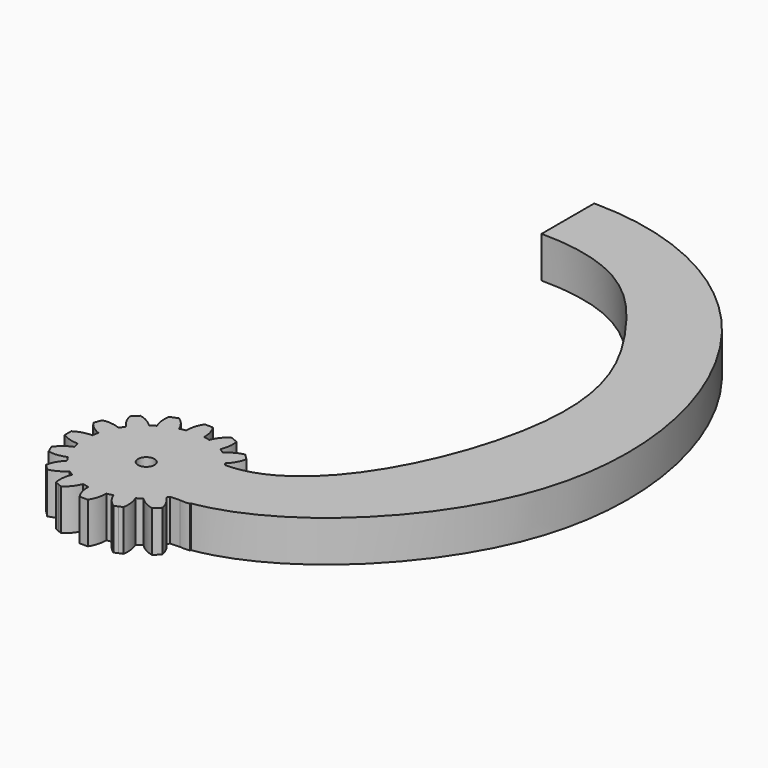
from build123d import *

# Parameters (mm, degrees)
F1_DEPTH = 5
F2_R     = 1
F3_DEPTH = 5.001
F5_DEPTH = 5


with BuildPart() as f1:
    # F0 (on Top) → F1 (new body)
    with BuildSketch(Plane.XY):
        with BuildLine():
            ThreePointArc((7.4206173165, -1.0883191822), (7.4801280027, -0.5456052265), (7.5, 0))
            ThreePointArc((7.5, 0), (7.4801280027, 0.5456052265), (7.4206173165, 1.0883191822))
            ThreePointArc((7.4206173165, 1.0883191822), (7.355889603, 1.4631774151), (7.2722381774, 1.8342714877))
            ThreePointArc((7.2722381774, 1.8342714877), (6.9290964938, 2.8701257427), (6.4392747372, 3.8452231222))
            ThreePointArc((6.4392747372, 3.8452231222), (6.2360220923, 4.1667767476), (6.0167266989, 4.4776109513))
            ThreePointArc((6.0167266989, 4.4776109513), (5.3033008589, 5.3033008589), (4.4776109513, 6.0167266989))
            ThreePointArc((4.4776109513, 6.0167266989), (4.1667767476, 6.2360220923), (3.8452231222, 6.4392747372))
            ThreePointArc((3.8452231222, 6.4392747372), (2.8701257427, 6.9290964938), (1.8342714877, 7.2722381774))
            ThreePointArc((1.8342714877, 7.2722381774), (1.4631774151, 7.355889603), (1.0883191822, 7.4206173165))
            ThreePointArc((1.0883191822, 7.4206173165), (0, 7.5), (-1.0883191822, 7.4206173165))
            ThreePointArc((-1.0883191822, 7.4206173165), (-1.4631774151, 7.355889603), (-1.8342714877, 7.2722381774))
            ThreePointArc((-1.8342714877, 7.2722381774), (-2.8701257427, 6.9290964938), (-3.8452231222, 6.4392747372))
            ThreePointArc((-3.8452231222, 6.4392747372), (-4.1667767476, 6.2360220923), (-4.4776109513, 6.0167266989))
            ThreePointArc((-4.4776109513, 6.0167266989), (-5.3033008589, 5.3033008589), (-6.0167266989, 4.4776109513))
            ThreePointArc((-6.0167266989, 4.4776109513), (-6.2360220923, 4.1667767476), (-6.4392747372, 3.8452231222))
            ThreePointArc((-6.4392747372, 3.8452231222), (-6.9290964938, 2.8701257427), (-7.2722381774, 1.8342714877))
            ThreePointArc((-7.2722381774, 1.8342714877), (-7.355889603, 1.4631774151), (-7.4206173165, 1.0883191822))
            ThreePointArc((-7.4206173165, 1.0883191822), (-7.5, 0), (-7.4206173165, -1.0883191822))
            ThreePointArc((-7.4206173165, -1.0883191822), (-7.355889603, -1.4631774151), (-7.2722381774, -1.8342714877))
            ThreePointArc((-7.2722381774, -1.8342714877), (-6.9290964938, -2.8701257427), (-6.4392747372, -3.8452231222))
            ThreePointArc((-6.4392747372, -3.8452231222), (-6.2360220923, -4.1667767476), (-6.0167266989, -4.4776109513))
            ThreePointArc((-6.0167266989, -4.4776109513), (-5.3033008589, -5.3033008589), (-4.4776109513, -6.0167266989))
            ThreePointArc((-4.4776109513, -6.0167266989), (-4.1667767476, -6.2360220923), (-3.8452231222, -6.4392747372))
            ThreePointArc((-3.8452231222, -6.4392747372), (-2.8701257427, -6.9290964938), (-1.8342714877, -7.2722381774))
            ThreePointArc((-1.8342714877, -7.2722381774), (-1.4631774151, -7.355889603), (-1.0883191822, -7.4206173165))
            ThreePointArc((-1.0883191822, -7.4206173165), (0, -7.5), (1.0883191822, -7.4206173165))
            ThreePointArc((1.0883191822, -7.4206173165), (1.4631774151, -7.355889603), (1.8342714877, -7.2722381774))
            ThreePointArc((1.8342714877, -7.2722381774), (2.8701257427, -6.9290964938), (3.8452231222, -6.4392747372))
            ThreePointArc((3.8452231222, -6.4392747372), (4.1667767476, -6.2360220923), (4.4776109513, -6.0167266989))
            ThreePointArc((4.4776109513, -6.0167266989), (5.3033008589, -5.3033008589), (6.0167266989, -4.4776109513))
            ThreePointArc((6.0167266989, -4.4776109513), (6.2360220923, -4.1667767476), (6.4392747372, -3.8452231222))
            ThreePointArc((6.4392747372, -3.8452231222), (6.9290964938, -2.8701257427), (7.2722381774, -1.8342714877))
            ThreePointArc((7.2722381774, -1.8342714877), (7.355889603, -1.4631774151), (7.4206173165, -1.0883191822))
        make_face()
        with BuildLine():
            ThreePointArc((7.4206173165, 1.0883191822), (7.4801280027, 0.5456052265), (7.5, 0))
            ThreePointArc((7.5, 0), (7.4801280027, -0.5456052265), (7.4206173165, -1.0883191822))
            ThreePointArc((7.4206173165, -1.0883191822), (8.5043518229, -0.9498278009), (9.5, -0.5))
            Line((9.5, -0.5), (9.5, 0))
            Line((9.5, 0), (9.5, 0.5))
            ThreePointArc((9.5, 0.5), (8.5043518229, 0.9498278009), (7.4206173165, 1.0883191822))
        make_face()
        with BuildLine():
            ThreePointArc((6.4392747372, 3.8452231222), (6.9290964938, 2.8701257427), (7.2722381774, 1.8342714877))
            ThreePointArc((7.2722381774, 1.8342714877), (8.2204799494, 2.376948081), (8.968197275, 3.1735528412))
            Line((8.968197275, 3.1735528412), (8.7768555589, 3.6354926075))
            Line((8.7768555589, 3.6354926075), (8.5855138427, 4.0974323737))
            ThreePointArc((8.5855138427, 4.0974323737), (7.4935132234, 4.1320010103), (6.4392747372, 3.8452231222))
        make_face()
        with BuildLine():
            ThreePointArc((8.968197275, -3.1735528412), (8.2204799494, -2.376948081), (7.2722381774, -1.8342714877))
            ThreePointArc((7.2722381774, -1.8342714877), (6.9290964938, -2.8701257427), (6.4392747372, -3.8452231222))
            ThreePointArc((6.4392747372, -3.8452231222), (7.4935132234, -4.1320010103), (8.5855138427, -4.0974323737))
            Line((8.5855138427, -4.0974323737), (8.7768555589, -3.6354926075))
            Line((8.7768555589, -3.6354926075), (8.968197275, -3.1735528412))
        make_face()
        with BuildLine():
            ThreePointArc((4.4776109513, 6.0167266989), (5.3033008589, 5.3033008589), (6.0167266989, 4.4776109513))
            ThreePointArc((6.0167266989, 4.4776109513), (6.6851145225, 5.3418551646), (7.0710678119, 6.3639610307))
            Line((7.0710678119, 6.3639610307), (6.7175144213, 6.7175144213))
            Line((6.7175144213, 6.7175144213), (6.3639610307, 7.0710678119))
            ThreePointArc((6.3639610307, 7.0710678119), (5.3418551646, 6.6851145225), (4.4776109513, 6.0167266989))
        make_face()
        with BuildLine():
            ThreePointArc((7.0710678119, -6.3639610307), (6.6851145225, -5.3418551646), (6.0167266989, -4.4776109513))
            ThreePointArc((6.0167266989, -4.4776109513), (5.3033008589, -5.3033008589), (4.4776109513, -6.0167266989))
            ThreePointArc((4.4776109513, -6.0167266989), (5.3418551646, -6.6851145225), (6.3639610307, -7.0710678119))
            Line((6.3639610307, -7.0710678119), (6.7175144213, -6.7175144213))
            Line((6.7175144213, -6.7175144213), (7.0710678119, -6.3639610307))
        make_face()
        with BuildLine():
            ThreePointArc((1.8342714877, 7.2722381774), (2.8701257427, 6.9290964938), (3.8452231222, 6.4392747372))
            ThreePointArc((3.8452231222, 6.4392747372), (4.1320010103, 7.4935132234), (4.0974323737, 8.5855138427))
            Line((4.0974323737, 8.5855138427), (3.6354926075, 8.7768555589))
            Line((3.6354926075, 8.7768555589), (3.1735528412, 8.968197275))
            ThreePointArc((3.1735528412, 8.968197275), (2.376948081, 8.2204799494), (1.8342714877, 7.2722381774))
        make_face()
        with BuildLine():
            ThreePointArc((4.0974323737, -8.5855138427), (4.1320010103, -7.4935132234), (3.8452231222, -6.4392747372))
            ThreePointArc((3.8452231222, -6.4392747372), (2.8701257427, -6.9290964938), (1.8342714877, -7.2722381774))
            ThreePointArc((1.8342714877, -7.2722381774), (2.376948081, -8.2204799494), (3.1735528412, -8.968197275))
            Line((3.1735528412, -8.968197275), (3.6354926075, -8.7768555589))
            Line((3.6354926075, -8.7768555589), (4.0974323737, -8.5855138427))
        make_face()
        with BuildLine():
            ThreePointArc((-1.0883191822, 7.4206173165), (0, 7.5), (1.0883191822, 7.4206173165))
            ThreePointArc((1.0883191822, 7.4206173165), (0.9498278009, 8.5043518229), (0.5, 9.5))
            Line((0.5, 9.5), (0, 9.5))
            Line((0, 9.5), (-0.5, 9.5))
            ThreePointArc((-0.5, 9.5), (-0.9498278009, 8.5043518229), (-1.0883191822, 7.4206173165))
        make_face()
        with BuildLine():
            ThreePointArc((0.5, -9.5), (0.9498278009, -8.5043518229), (1.0883191822, -7.4206173165))
            ThreePointArc((1.0883191822, -7.4206173165), (0, -7.5), (-1.0883191822, -7.4206173165))
            ThreePointArc((-1.0883191822, -7.4206173165), (-0.9498278009, -8.5043518229), (-0.5, -9.5))
            Line((-0.5, -9.5), (0, -9.5))
            Line((0, -9.5), (0.5, -9.5))
        make_face()
        with BuildLine():
            ThreePointArc((-3.8452231222, 6.4392747372), (-2.8701257427, 6.9290964938), (-1.8342714877, 7.2722381774))
            ThreePointArc((-1.8342714877, 7.2722381774), (-2.376948081, 8.2204799494), (-3.1735528412, 8.968197275))
            Line((-3.1735528412, 8.968197275), (-3.6354926075, 8.7768555589))
            Line((-3.6354926075, 8.7768555589), (-4.0974323737, 8.5855138427))
            ThreePointArc((-4.0974323737, 8.5855138427), (-4.1320010103, 7.4935132234), (-3.8452231222, 6.4392747372))
        make_face()
        with BuildLine():
            ThreePointArc((-3.1735528412, -8.968197275), (-2.376948081, -8.2204799494), (-1.8342714877, -7.2722381774))
            ThreePointArc((-1.8342714877, -7.2722381774), (-2.8701257427, -6.9290964938), (-3.8452231222, -6.4392747372))
            ThreePointArc((-3.8452231222, -6.4392747372), (-4.1320010103, -7.4935132234), (-4.0974323737, -8.5855138427))
            Line((-4.0974323737, -8.5855138427), (-3.6354926075, -8.7768555589))
            Line((-3.6354926075, -8.7768555589), (-3.1735528412, -8.968197275))
        make_face()
        with BuildLine():
            ThreePointArc((-6.0167266989, 4.4776109513), (-5.3033008589, 5.3033008589), (-4.4776109513, 6.0167266989))
            ThreePointArc((-4.4776109513, 6.0167266989), (-5.3418551646, 6.6851145225), (-6.3639610307, 7.0710678119))
            Line((-6.3639610307, 7.0710678119), (-6.7175144213, 6.7175144213))
            Line((-6.7175144213, 6.7175144213), (-7.0710678119, 6.3639610307))
            ThreePointArc((-7.0710678119, 6.3639610307), (-6.6851145225, 5.3418551646), (-6.0167266989, 4.4776109513))
        make_face()
        with BuildLine():
            ThreePointArc((-6.3639610307, -7.0710678119), (-5.3418551646, -6.6851145225), (-4.4776109513, -6.0167266989))
            ThreePointArc((-4.4776109513, -6.0167266989), (-5.3033008589, -5.3033008589), (-6.0167266989, -4.4776109513))
            ThreePointArc((-6.0167266989, -4.4776109513), (-6.6851145225, -5.3418551646), (-7.0710678119, -6.3639610307))
            Line((-7.0710678119, -6.3639610307), (-6.7175144213, -6.7175144213))
            Line((-6.7175144213, -6.7175144213), (-6.3639610307, -7.0710678119))
        make_face()
        with BuildLine():
            ThreePointArc((-7.2722381774, 1.8342714877), (-6.9290964938, 2.8701257427), (-6.4392747372, 3.8452231222))
            ThreePointArc((-6.4392747372, 3.8452231222), (-7.4935132234, 4.1320010103), (-8.5855138427, 4.0974323737))
            Line((-8.5855138427, 4.0974323737), (-8.7768555589, 3.6354926075))
            Line((-8.7768555589, 3.6354926075), (-8.968197275, 3.1735528412))
            ThreePointArc((-8.968197275, 3.1735528412), (-8.2204799494, 2.376948081), (-7.2722381774, 1.8342714877))
        make_face()
        with BuildLine():
            ThreePointArc((-8.5855138427, -4.0974323737), (-7.4935132234, -4.1320010103), (-6.4392747372, -3.8452231222))
            ThreePointArc((-6.4392747372, -3.8452231222), (-6.9290964938, -2.8701257427), (-7.2722381774, -1.8342714877))
            ThreePointArc((-7.2722381774, -1.8342714877), (-8.2204799494, -2.376948081), (-8.968197275, -3.1735528412))
            Line((-8.968197275, -3.1735528412), (-8.7768555589, -3.6354926075))
            Line((-8.7768555589, -3.6354926075), (-8.5855138427, -4.0974323737))
        make_face()
        with BuildLine():
            ThreePointArc((-7.4206173165, -1.0883191822), (-7.5, 0), (-7.4206173165, 1.0883191822))
            ThreePointArc((-7.4206173165, 1.0883191822), (-8.5043518229, 0.9498278009), (-9.5, 0.5))
            Line((-9.5, 0.5), (-9.5, 0))
            Line((-9.5, 0), (-9.5, -0.5))
            ThreePointArc((-9.5, -0.5), (-8.5043518229, -0.9498278009), (-7.4206173165, -1.0883191822))
        make_face()
    extrude(amount=F1_DEPTH)

    # F2 (on face) → F3 (cut, through all)
    with BuildSketch(Plane.XY.offset(5)):
        Circle(F2_R)
    extrude(amount=-F3_DEPTH, mode=Mode.SUBTRACT)

    # F4 (on Top) → F5 (join, through all)
    with BuildSketch(Plane.XY):
        with BuildLine():
            add(Edge.make_bspline(
                [(0, 68), (10, 68), (30.3411100865, 57.9511873452), (40.3926177616, 16.7956269276), (16.2360220923, -4.1667767476), (6.2360220923, -4.1667767476)],
                knots=[0, 0, 0, 0, 0.3114999197, 0.6621103025, 1, 1, 1, 1], degree=3))
            Line((0, 68), (0, 60))
            add(Edge.make_bspline(
                [(0, 60), (10, 60), (18.8927354151, 50.4787600801), (28.9855676731, 32.0157628547), (16.2360220923, 4.1667767476), (6.2360220923, 4.1667767476)],
                knots=[0, 0, 0, 0, 0.3098430419, 0.6166815096, 1, 1, 1, 1], degree=3))
            Line((6.2360220923, 4.1667767476), (6.2360220923, -4.1667767476))
        make_face()
    extrude(amount=F5_DEPTH)


solid = f1.part
